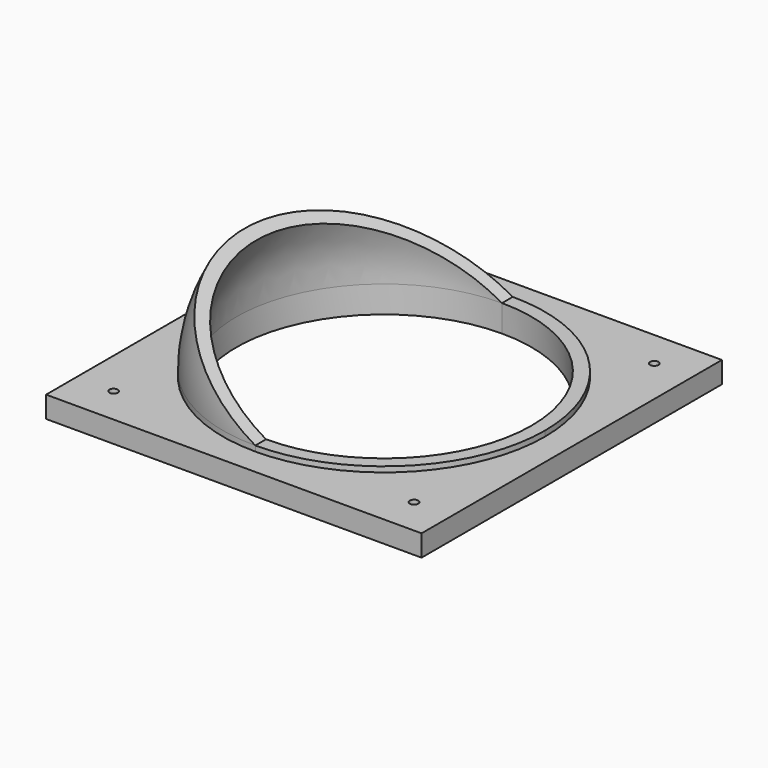
from build123d import *

# Parameters (mm, degrees)
F0_W     = 88.9
F0_H     = 88.9
F1_DEPTH = 5.08
F2_DEPTH = 6.35
F3_DEPTH = 6.35
F5_ANGLE = -30
F6_D     = 2


with BuildPart() as f1:
    # F0 (on Top) → F1 (new body)
    with BuildSketch(Plane.XY):
        Rectangle(F0_W, F0_H)
        with BuildLine():
            ThreePointArc((0, 38.1), (26.940768, 26.940768), (38.1, 0))
            ThreePointArc((38.1, 0), (26.940768, -26.940768), (0, -38.1))
            ThreePointArc((0, -38.1), (-38.1, 0), (0, 38.1))
        make_face(mode=Mode.SUBTRACT)
    extrude(amount=F1_DEPTH)

    # F0 (on Top) → F2 (join)
    with BuildSketch(Plane.XY):
        with BuildLine():
            Line((0, 34.925), (0, 38.1))
            ThreePointArc((0, 38.1), (-38.1, 0), (0, -38.1))
            Line((0, -38.1), (0, -34.925))
            ThreePointArc((0, -34.925), (-34.925, 0), (0, 34.925))
        make_face()
    extrude(amount=F2_DEPTH)

    # F0 (on Top) → F3 (join)
    with BuildSketch(Plane.XY):
        with BuildLine():
            ThreePointArc((0, -38.1), (26.940768, -26.940768), (38.1, 0))
            ThreePointArc((38.1, 0), (26.940768, 26.940768), (0, 38.1))
            Line((0, 38.1), (0, 34.925))
            ThreePointArc((0, 34.925), (24.695704, 24.695704), (34.925, 0))
            ThreePointArc((34.925, 0), (24.695704, -24.695704), (0, -34.925))
            Line((0, -34.925), (0, -38.1))
        make_face()
    extrude(amount=F3_DEPTH)

    # F4 (on face) → F5 (revolve)
    with BuildSketch(Plane.XY.offset(6.35)):
        with BuildLine():
            Line((0, -38.1), (0, -34.925))
            ThreePointArc((0, -34.925), (-34.925, 0), (0, 34.925))
            Line((0, 34.925), (0, 38.1))
            ThreePointArc((0, 38.1), (-38.1, 0), (0, -38.1))
        make_face()
    revolve(axis=Axis((0, -36.5125, 6.35), (0, -1, 0)), revolution_arc=F5_ANGLE)

    # F6 (through all)
    with Locations(Plane(origin=(0, 0, 0), x_dir=(1, 0, 0), z_dir=(0, 0, -1))):
        with Locations((35.56, 35.56), (35.56, -35.56), (-35.56, -35.56), (-35.56, 35.56)):
            Hole(F6_D / 2)


solid = f1.part
